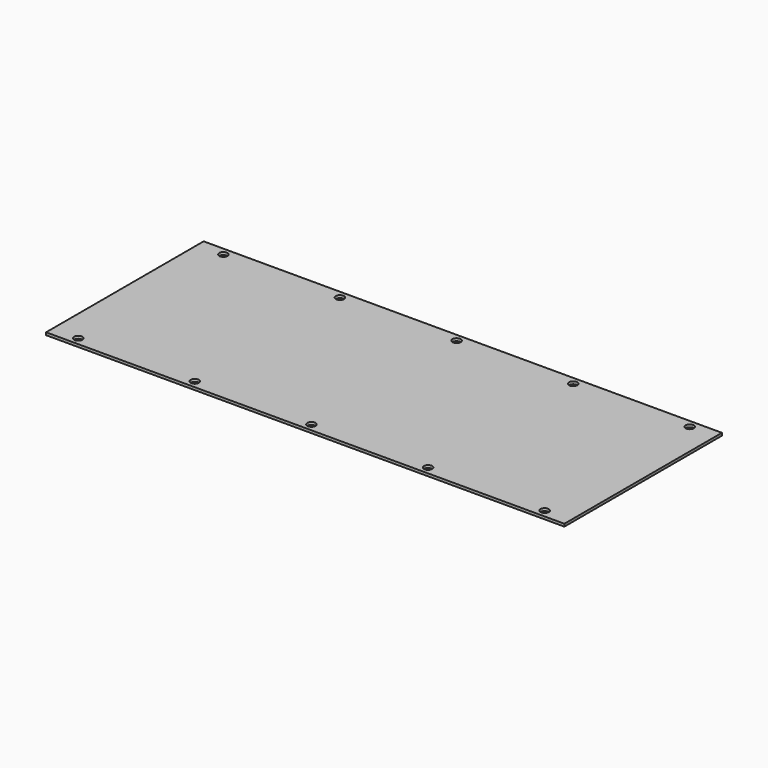
from build123d import *

# Parameters (mm, degrees)
F0_W     = 100
F0_H     = 38
F1_DEPTH = 0.5
F2_R     = 0.8
F3_DEPTH = 0.501


with BuildPart() as f1:
    # F0 (on Top) → F1 (new body)
    with BuildSketch(Plane.XY):
        with Locations((-50, 0)):
            Rectangle(F0_W, F0_H)
    extrude(amount=F1_DEPTH)

    # F2 (on face) → F3 (cut, through all)
    with BuildSketch(Plane.XY.offset(0.5)):
        with Locations((-95, -17.5)):
            Circle(F2_R)
        with Locations((-72.5, -17.5)):
            Circle(F2_R)
        with Locations((-50, -17.5)):
            Circle(F2_R)
        with Locations((-27.5, -17.5)):
            Circle(F2_R)
        with Locations((-5, -17.5)):
            Circle(F2_R)
        with Locations((-5, 17.5)):
            Circle(F2_R)
        with Locations((-27.5, 17.5)):
            Circle(F2_R)
        with Locations((-50, 17.5)):
            Circle(F2_R)
        with Locations((-72.5, 17.5)):
            Circle(F2_R)
        with Locations((-95, 17.5)):
            Circle(F2_R)
    extrude(amount=-F3_DEPTH, mode=Mode.SUBTRACT)


solid = f1.part
